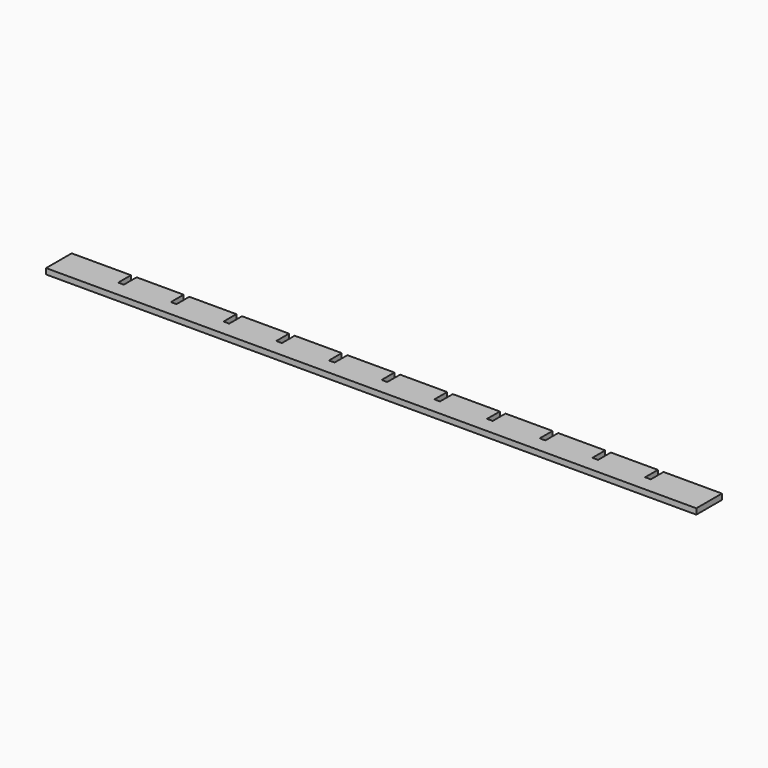
from build123d import *

# Parameters (mm, degrees)
PAD_DEPTH = 3


with BuildPart() as part:
    # Sketch → Pad (new body)
    with BuildSketch(Plane.XY):
        Polygon((0, 0), (0, 17), (31.5, 17), (31.5, 8.5), (34.5, 8.5), (34.5, 17), (59.5, 17), (59.5, 8.5), (62.5, 8.5), (62.5, 17), (87.5, 17), (87.5, 8.5), (90.5, 8.5), (90.5, 17), (115.5, 17), (115.5, 8.5), (118.5, 8.5), (118.5, 17), (143.5, 17), (143.5, 8.5), (146.5, 8.5), (146.5, 17), (171.5, 17), (171.5, 8.5), (174.5, 8.5), (174.5, 17), (199.5, 17), (199.5, 8.5), (202.5, 8.5), (202.5, 17), (227.5, 17), (227.5, 8.5), (230.5, 8.5), (230.5, 17), (255.5, 17), (255.5, 8.5), (258.5, 8.5), (258.5, 17), (283.5, 17), (283.5, 8.5), (286.5, 8.5), (286.5, 17), (311.5, 17), (311.5, 8.5), (314.5, 8.5), (314.5, 17), (345.5, 17), (345.5, 0), align=None)
    extrude(amount=PAD_DEPTH)


solid = part.part
